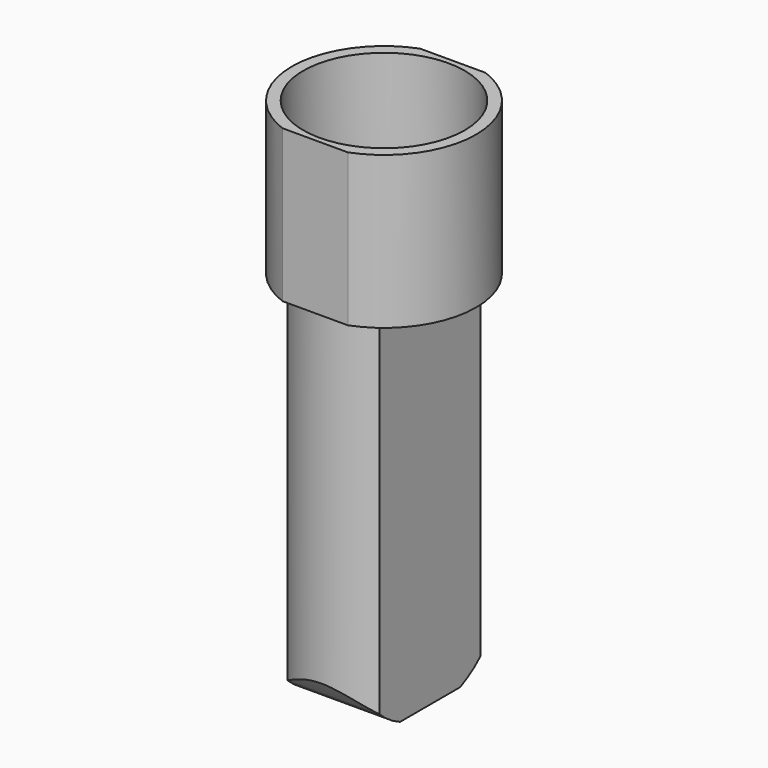
from build123d import *

# Parameters (mm, degrees)
F1_DEPTH = 38
F2_R     = 20.15
F3_DEPTH = 26
F5_DEPTH = 91
F7_DEPTH = 34.5010000087


with BuildPart() as f1:
    # F0 (on Top) → F1 (new body)
    with BuildSketch(Plane.XY):
        with BuildLine():
            Line((8.1700673192, 21.5), (-8.1700673192, 21.5))
            ThreePointArc((-8.1700673192, 21.5), (-23, 0), (-8.1700673192, -21.5))
            Line((-8.1700673192, -21.5), (8.1700673192, -21.5))
            ThreePointArc((8.1700673192, -21.5), (23, 0), (8.1700673192, 21.5))
        make_face()
    extrude(amount=F1_DEPTH)

    # F2 (on face) → F3 (cut)
    with BuildSketch(Plane.XY.offset(38)):
        Circle(F2_R)
    extrude(amount=-F3_DEPTH, mode=Mode.SUBTRACT)

    # F4 (on face) → F5 (join)
    with BuildSketch(Plane(origin=(0, 0, 0), x_dir=(1, 0, 0), z_dir=(0, 0, -1))):
        with BuildLine():
            Line((11.4999999936, -15.7480157527), (11.5000000064, 15.7480157434))
            ThreePointArc((11.5000000064, 15.7480157434), (7.9e-09, 19.5), (-11.4999999936, 15.7480157527))
            Line((-11.4999999936, 15.7480157527), (-11.5000000064, -15.7480157434))
            ThreePointArc((-11.5000000064, -15.7480157434), (-7.9e-09, -19.5), (11.4999999936, -15.7480157527))
        make_face()
    extrude(amount=F5_DEPTH)

    # F6 (on face) → F7 (cut, through all)
    with BuildSketch(Plane(origin=(-11.5, -4.6e-09, 0), x_dir=(4e-10, -1, 0), z_dir=(-1, -4e-10, 0))):
        with BuildLine():
            ThreePointArc((-9.3808315196, -91), (-12.7417686292, -89.1480372937), (-15.748015748, -86.7630546142))
            Line((-15.748015748, -86.7630546142), (-15.748015748, -91))
            Line((-15.748015748, -91), (-9.3808315196, -91))
        make_face()
        with BuildLine():
            ThreePointArc((15.748015748, -86.7630546142), (12.7417686292, -89.1480372937), (9.3808315196, -91))
            Line((9.3808315196, -91), (15.748015748, -91))
            Line((15.748015748, -91), (15.748015748, -86.7630546142))
        make_face()
        with BuildLine():
            ThreePointArc((-15.748015748, -86.7630546142), (-21.1092913453, -79.1322406285), (-23, -70))
            Line((-23, -70), (-29.5417029411, -96.2313264608))
            Line((-29.5417029411, -96.2313264608), (26.6386214644, -96.2313264608))
            Line((26.6386214644, -96.2313264608), (23, -70))
            ThreePointArc((23, -70), (21.1092913453, -79.1322406285), (15.748015748, -86.7630546142))
            Line((15.748015748, -86.7630546142), (15.748015748, -91))
            Line((15.748015748, -91), (9.3808315196, -91))
            ThreePointArc((9.3808315196, -91), (0, -93), (-9.3808315196, -91))
            Line((-9.3808315196, -91), (-15.748015748, -91))
            Line((-15.748015748, -91), (-15.748015748, -86.7630546142))
        make_face()
    extrude(amount=-F7_DEPTH, mode=Mode.SUBTRACT)


solid = f1.part
